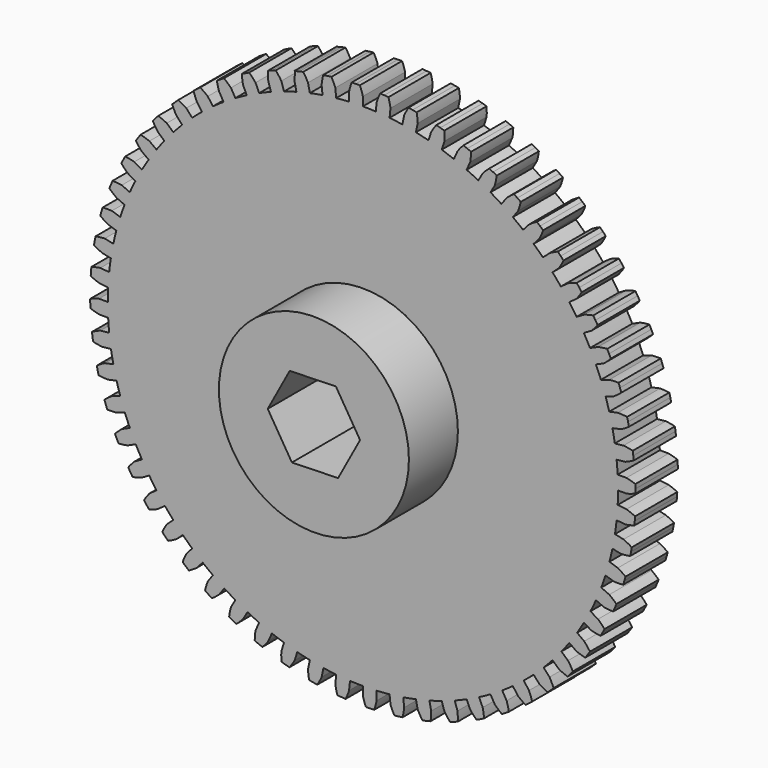
from build123d import *

# Parameters (mm, degrees)
F1_DEPTH = 6.35
F2_R     = 11.43
F3_DEPTH = 7.366
F5_DEPTH = 64.008


with BuildPart() as f1:
    # F0 (on Front) → F1 (new body)
    with BuildSketch(Plane.XZ):
        with BuildLine():
            ThreePointArc((30.651614, -1.550795), (30.681017, -0.775645), (30.69082, 0))
            ThreePointArc((30.69082, 0), (30.679564, 0.831138), (30.645804, 1.661667))
            ThreePointArc((30.645804, 1.661667), (30.59402, 2.435643), (30.522692, 3.208064))
            ThreePointArc((30.522692, 3.208064), (30.42462, 4.033473), (30.304232, 4.855923))
            ThreePointArc((30.304232, 4.855923), (30.171829, 5.620247), (30.020152, 6.38098))
            ThreePointArc((30.020152, 6.38098), (29.836338, 7.191616), (29.63064, 7.996976))
            ThreePointArc((29.63064, 7.996976), (29.419069, 8.743273), (29.188704, 9.483985))
            ThreePointArc((29.188704, 9.483985), (28.921163, 10.270966), (28.632408, 11.050413))
            ThreePointArc((28.632408, 11.050413), (28.343987, 11.770507), (28.037459, 12.483081))
            ThreePointArc((28.037459, 12.483081), (27.689122, 13.237785), (27.320474, 13.982779))
            ThreePointArc((27.320474, 13.982779), (26.958363, 14.66878), (26.57903, 15.34541))
            ThreePointArc((26.57903, 15.34541), (26.153713, 16.059569), (25.709211, 16.761947))
            ThreePointArc((25.709211, 16.761947), (25.277377, 17.406339), (24.829395, 18.039611))
            ThreePointArc((24.829395, 18.039611), (24.331758, 18.7054), (23.816273, 19.357468))
            ThreePointArc((23.816273, 19.357468), (23.319447, 19.953191), (22.807724, 20.536167))
            ThreePointArc((22.807724, 20.536167), (22.243219, 21.146291), (21.662399, 21.740904))
            ThreePointArc((21.662399, 21.740904), (21.106024, 22.281431), (20.536167, 22.807724))
            ThreePointArc((20.536167, 22.807724), (19.910979, 23.355499), (19.271186, 23.886143))
            ThreePointArc((19.271186, 23.886143), (18.66136, 24.365551), (18.039611, 24.829395))
            ThreePointArc((18.039611, 24.829395), (17.36059, 25.308819), (16.668835, 25.769679))
            ThreePointArc((16.668835, 25.769679), (16.012237, 26.182718), (15.34541, 26.57903))
            ThreePointArc((15.34541, 26.57903), (14.619995, 26.984851), (13.883856, 27.370878))
            ThreePointArc((13.883856, 27.370878), (13.187681, 27.71302), (12.483081, 28.037459))
            ThreePointArc((12.483081, 28.037459), (11.71922, 28.365231), (10.946763, 28.672196))
            ThreePointArc((10.946763, 28.672196), (10.218638, 28.939694), (9.483985, 29.188704))
            ThreePointArc((9.483985, 29.188704), (8.690047, 29.434835), (7.889735, 29.659375))
            ThreePointArc((7.889735, 29.659375), (7.137638, 29.849297), (6.38098, 30.020152))
            ThreePointArc((6.38098, 30.020152), (5.565664, 30.181945), (4.746266, 30.321599))
            ThreePointArc((4.746266, 30.321599), (3.978436, 30.431866), (3.208064, 30.522692))
            ThreePointArc((3.208064, 30.522692), (2.380303, 30.598376), (1.550795, 30.651614))
            ThreePointArc((1.550795, 30.651614), (0.775645, 30.681017), (0, 30.69082))
            ThreePointArc((0, 30.69082), (-0.831138, 30.679564), (-1.661667, 30.645804))
            ThreePointArc((-1.661667, 30.645804), (-2.435643, 30.59402), (-3.208064, 30.522692))
            ThreePointArc((-3.208064, 30.522692), (-4.033473, 30.42462), (-4.855923, 30.304232))
            ThreePointArc((-4.855923, 30.304232), (-5.620247, 30.171829), (-6.38098, 30.020152))
            ThreePointArc((-6.38098, 30.020152), (-7.191616, 29.836338), (-7.996976, 29.63064))
            ThreePointArc((-7.996976, 29.63064), (-8.743273, 29.419069), (-9.483985, 29.188704))
            ThreePointArc((-9.483985, 29.188704), (-10.270966, 28.921163), (-11.050413, 28.632408))
            ThreePointArc((-11.050413, 28.632408), (-11.770507, 28.343987), (-12.483081, 28.037459))
            ThreePointArc((-12.483081, 28.037459), (-13.237785, 27.689122), (-13.982779, 27.320474))
            ThreePointArc((-13.982779, 27.320474), (-14.66878, 26.958363), (-15.34541, 26.57903))
            ThreePointArc((-15.34541, 26.57903), (-16.059569, 26.153713), (-16.761947, 25.709211))
            ThreePointArc((-16.761947, 25.709211), (-17.406339, 25.277377), (-18.039611, 24.829395))
            ThreePointArc((-18.039611, 24.829395), (-18.7054, 24.331758), (-19.357468, 23.816273))
            ThreePointArc((-19.357468, 23.816273), (-19.953191, 23.319447), (-20.536167, 22.807724))
            ThreePointArc((-20.536167, 22.807724), (-21.146291, 22.243219), (-21.740904, 21.662399))
            ThreePointArc((-21.740904, 21.662399), (-22.281431, 21.106024), (-22.807724, 20.536167))
            ThreePointArc((-22.807724, 20.536167), (-23.355499, 19.910979), (-23.886143, 19.271186))
            ThreePointArc((-23.886143, 19.271186), (-24.365551, 18.66136), (-24.829395, 18.039611))
            ThreePointArc((-24.829395, 18.039611), (-25.308819, 17.36059), (-25.769679, 16.668835))
            ThreePointArc((-25.769679, 16.668835), (-26.182718, 16.012237), (-26.57903, 15.34541))
            ThreePointArc((-26.57903, 15.34541), (-26.984851, 14.619995), (-27.370878, 13.883856))
            ThreePointArc((-27.370878, 13.883856), (-27.71302, 13.187681), (-28.037459, 12.483081))
            ThreePointArc((-28.037459, 12.483081), (-28.365231, 11.71922), (-28.672196, 10.946763))
            ThreePointArc((-28.672196, 10.946763), (-28.939694, 10.218638), (-29.188704, 9.483985))
            ThreePointArc((-29.188704, 9.483985), (-29.434835, 8.690047), (-29.659375, 7.889735))
            ThreePointArc((-29.659375, 7.889735), (-29.849297, 7.137638), (-30.020152, 6.38098))
            ThreePointArc((-30.020152, 6.38098), (-30.181945, 5.565664), (-30.321599, 4.746266))
            ThreePointArc((-30.321599, 4.746266), (-30.431866, 3.978436), (-30.522692, 3.208064))
            ThreePointArc((-30.522692, 3.208064), (-30.598376, 2.380303), (-30.651614, 1.550795))
            ThreePointArc((-30.651614, 1.550795), (-30.681017, 0.775645), (-30.69082, 0))
            ThreePointArc((-30.69082, 0), (-30.679564, -0.831138), (-30.645804, -1.661667))
            ThreePointArc((-30.645804, -1.661667), (-30.59402, -2.435643), (-30.522692, -3.208064))
            ThreePointArc((-30.522692, -3.208064), (-30.42462, -4.033473), (-30.304232, -4.855923))
            ThreePointArc((-30.304232, -4.855923), (-30.171829, -5.620247), (-30.020152, -6.38098))
            ThreePointArc((-30.020152, -6.38098), (-29.836338, -7.191616), (-29.63064, -7.996976))
            ThreePointArc((-29.63064, -7.996976), (-29.419069, -8.743273), (-29.188704, -9.483985))
            ThreePointArc((-29.188704, -9.483985), (-28.921163, -10.270966), (-28.632408, -11.050413))
            ThreePointArc((-28.632408, -11.050413), (-28.343987, -11.770507), (-28.037459, -12.483081))
            ThreePointArc((-28.037459, -12.483081), (-27.689122, -13.237785), (-27.320474, -13.982779))
            ThreePointArc((-27.320474, -13.982779), (-26.958363, -14.66878), (-26.57903, -15.34541))
            ThreePointArc((-26.57903, -15.34541), (-26.153713, -16.059569), (-25.709211, -16.761947))
            ThreePointArc((-25.709211, -16.761947), (-25.277377, -17.406339), (-24.829395, -18.039611))
            ThreePointArc((-24.829395, -18.039611), (-24.331758, -18.7054), (-23.816273, -19.357468))
            ThreePointArc((-23.816273, -19.357468), (-23.319447, -19.953191), (-22.807724, -20.536167))
            ThreePointArc((-22.807724, -20.536167), (-22.243219, -21.146291), (-21.662399, -21.740904))
            ThreePointArc((-21.662399, -21.740904), (-21.106024, -22.281431), (-20.536167, -22.807724))
            ThreePointArc((-20.536167, -22.807724), (-19.910979, -23.355499), (-19.271186, -23.886143))
            ThreePointArc((-19.271186, -23.886143), (-18.66136, -24.365551), (-18.039611, -24.829395))
            ThreePointArc((-18.039611, -24.829395), (-17.36059, -25.308819), (-16.668835, -25.769679))
            ThreePointArc((-16.668835, -25.769679), (-16.012237, -26.182718), (-15.34541, -26.57903))
            ThreePointArc((-15.34541, -26.57903), (-14.619995, -26.984851), (-13.883856, -27.370878))
            ThreePointArc((-13.883856, -27.370878), (-13.187681, -27.71302), (-12.483081, -28.037459))
            ThreePointArc((-12.483081, -28.037459), (-11.71922, -28.365231), (-10.946763, -28.672196))
            ThreePointArc((-10.946763, -28.672196), (-10.218638, -28.939694), (-9.483985, -29.188704))
            ThreePointArc((-9.483985, -29.188704), (-8.690047, -29.434835), (-7.889735, -29.659375))
            ThreePointArc((-7.889735, -29.659375), (-7.137638, -29.849297), (-6.38098, -30.020152))
            ThreePointArc((-6.38098, -30.020152), (-5.565664, -30.181945), (-4.746266, -30.321599))
            ThreePointArc((-4.746266, -30.321599), (-3.978436, -30.431866), (-3.208064, -30.522692))
            ThreePointArc((-3.208064, -30.522692), (-2.380303, -30.598376), (-1.550795, -30.651614))
            ThreePointArc((-1.550795, -30.651614), (-0.775645, -30.681017), (0, -30.69082))
            ThreePointArc((0, -30.69082), (0.831138, -30.679564), (1.661667, -30.645804))
            ThreePointArc((1.661667, -30.645804), (2.435643, -30.59402), (3.208064, -30.522692))
            ThreePointArc((3.208064, -30.522692), (4.033473, -30.42462), (4.855923, -30.304232))
            ThreePointArc((4.855923, -30.304232), (5.620247, -30.171829), (6.38098, -30.020152))
            ThreePointArc((6.38098, -30.020152), (7.191616, -29.836338), (7.996976, -29.63064))
            ThreePointArc((7.996976, -29.63064), (8.743273, -29.419069), (9.483985, -29.188704))
            ThreePointArc((9.483985, -29.188704), (10.270966, -28.921163), (11.050413, -28.632408))
            ThreePointArc((11.050413, -28.632408), (11.770507, -28.343987), (12.483081, -28.037459))
            ThreePointArc((12.483081, -28.037459), (13.237785, -27.689122), (13.982779, -27.320474))
            ThreePointArc((13.982779, -27.320474), (14.66878, -26.958363), (15.34541, -26.57903))
            ThreePointArc((15.34541, -26.57903), (16.059569, -26.153713), (16.761947, -25.709211))
            ThreePointArc((16.761947, -25.709211), (17.406339, -25.277377), (18.039611, -24.829395))
            ThreePointArc((18.039611, -24.829395), (18.7054, -24.331758), (19.357468, -23.816273))
            ThreePointArc((19.357468, -23.816273), (19.953191, -23.319447), (20.536167, -22.807724))
            ThreePointArc((20.536167, -22.807724), (21.146291, -22.243219), (21.740904, -21.662399))
            ThreePointArc((21.740904, -21.662399), (22.281431, -21.106024), (22.807724, -20.536167))
            ThreePointArc((22.807724, -20.536167), (23.355499, -19.910979), (23.886143, -19.271186))
            ThreePointArc((23.886143, -19.271186), (24.365551, -18.66136), (24.829395, -18.039611))
            ThreePointArc((24.829395, -18.039611), (25.308819, -17.36059), (25.769679, -16.668835))
            ThreePointArc((25.769679, -16.668835), (26.182718, -16.012237), (26.57903, -15.34541))
            ThreePointArc((26.57903, -15.34541), (26.984851, -14.619995), (27.370878, -13.883856))
            ThreePointArc((27.370878, -13.883856), (27.71302, -13.187681), (28.037459, -12.483081))
            ThreePointArc((28.037459, -12.483081), (28.365231, -11.71922), (28.672196, -10.946763))
            ThreePointArc((28.672196, -10.946763), (28.939694, -10.218638), (29.188704, -9.483985))
            ThreePointArc((29.188704, -9.483985), (29.434835, -8.690047), (29.659375, -7.889735))
            ThreePointArc((29.659375, -7.889735), (29.849297, -7.137638), (30.020152, -6.38098))
            ThreePointArc((30.020152, -6.38098), (30.181945, -5.565664), (30.321599, -4.746266))
            ThreePointArc((30.321599, -4.746266), (30.431866, -3.978436), (30.522692, -3.208064))
            ThreePointArc((30.522692, -3.208064), (30.598376, -2.380303), (30.651614, -1.550795))
        make_face()
        with BuildLine():
            ThreePointArc((30.645804, 1.661667), (30.679564, 0.831138), (30.69082, 0))
            Line((30.69082, 0), (31.75, 0))
            ThreePointArc((31.75, 0), (32.284314, 0.16194), (32.805923, 0.36104))
            ThreePointArc((32.805923, 0.36104), (32.80224, 0.609943), (32.796668, 0.858811))
            ThreePointArc((32.796668, 0.858811), (32.789207, 1.10763), (32.779859, 1.356384))
            ThreePointArc((32.779859, 1.356384), (32.248545, 1.527912), (31.706488, 1.661667))
            Line((31.706488, 1.661667), (30.645804, 1.661667))
        make_face()
        with BuildLine():
            Line((31.706488, -1.661667), (30.651614, -1.550795))
            ThreePointArc((30.651614, -1.550795), (30.598376, -2.380303), (30.522692, -3.208064))
            Line((30.522692, -3.208064), (31.57607, -3.318779))
            ThreePointArc((31.57607, -3.318779), (32.124385, -3.213577), (32.663948, -3.070091))
            ThreePointArc((32.663948, -3.070091), (32.686302, -2.822166), (32.706774, -2.574079))
            ThreePointArc((32.706774, -2.574079), (32.725363, -2.325844), (32.742069, -2.077474))
            ThreePointArc((32.742069, -2.077474), (32.231595, -1.851349), (31.706488, -1.661667))
        make_face()
        with BuildLine():
            ThreePointArc((30.304232, 4.855923), (30.42462, 4.033473), (30.522692, 3.208064))
            Line((30.522692, 3.208064), (31.57607, 3.318779))
            ThreePointArc((31.57607, 3.318779), (32.09053, 3.535683), (32.58847, 3.788215))
            ThreePointArc((32.58847, 3.788215), (32.558789, 4.035369), (32.527234, 4.282292))
            ThreePointArc((32.527234, 4.282292), (32.493806, 4.528967), (32.458507, 4.775382))
            ThreePointArc((32.458507, 4.775382), (31.912174, 4.890433), (31.359105, 4.966794))
            Line((31.359105, 4.966794), (30.304232, 4.855923))
        make_face()
        with BuildLine():
            Line((31.359105, -4.966794), (30.321599, -4.746266))
            ThreePointArc((30.321599, -4.746266), (30.181945, -5.565664), (30.020152, -6.38098))
            Line((30.020152, -6.38098), (31.056186, -6.601196))
            ThreePointArc((31.056186, -6.601196), (31.612494, -6.553885), (32.1641, -6.467585))
            ThreePointArc((32.1641, -6.467585), (32.212246, -6.223355), (32.258539, -5.978767))
            ThreePointArc((32.258539, -5.978767), (32.302974, -5.733834), (32.345549, -5.488572))
            ThreePointArc((32.345549, -5.488572), (31.861508, -5.210326), (31.359105, -4.966794))
        make_face()
        with BuildLine():
            ThreePointArc((29.63064, 7.996976), (29.836338, 7.191616), (30.020152, 6.38098))
            Line((30.020152, 6.38098), (31.056186, 6.601196))
            ThreePointArc((31.056186, 6.601196), (31.545155, 6.870688), (32.013971, 7.173885))
            ThreePointArc((32.013971, 7.173885), (31.958618, 7.416583), (31.901425, 7.658854))
            ThreePointArc((31.901425, 7.658854), (31.842395, 7.900685), (31.781533, 8.14206))
            ThreePointArc((31.781533, 8.14206), (31.226166, 8.199373), (30.668145, 8.217505))
            Line((30.668145, 8.217505), (29.63064, 7.996976))
        make_face()
        with BuildLine():
            Line((30.668145, -8.217505), (29.659375, -7.889735))
            ThreePointArc((29.659375, -7.889735), (29.434835, -8.690047), (29.188704, -9.483985))
            Line((29.188704, -9.483985), (30.196044, -9.81129))
            ThreePointArc((30.196044, -9.81129), (30.75425, -9.822388), (31.311855, -9.794219))
            ThreePointArc((31.311855, -9.794219), (31.385267, -9.556359), (31.456872, -9.31795))
            ThreePointArc((31.456872, -9.31795), (31.526666, -9.079004), (31.594645, -8.839535))
            ThreePointArc((31.594645, -8.839535), (31.14234, -8.512218), (30.668145, -8.217505))
        make_face()
        with BuildLine():
            ThreePointArc((28.632408, 11.050413), (28.921163, 10.270966), (29.188704, 9.483985))
            Line((29.188704, 9.483985), (30.196044, 9.81129))
            ThreePointArc((30.196044, 9.81129), (30.654165, 10.130416), (31.08872, 10.480957))
            ThreePointArc((31.08872, 10.480957), (31.008301, 10.71654), (30.926097, 10.951505))
            ThreePointArc((30.926097, 10.951505), (30.842113, 11.185841), (30.756353, 11.419532))
            ThreePointArc((30.756353, 11.419532), (30.198038, 11.418479), (29.641179, 11.378182))
            Line((29.641179, 11.378182), (28.632408, 11.050413))
        make_face()
        with BuildLine():
            Line((29.641179, -11.378182), (28.672196, -10.946763))
            ThreePointArc((28.672196, -10.946763), (28.365231, -11.71922), (28.037459, -12.483081))
            Line((28.037459, -12.483081), (29.005068, -12.913888))
            ThreePointArc((29.005068, -12.913888), (29.559056, -12.983274), (30.11655, -13.013545))
            ThreePointArc((30.11655, -13.013545), (30.214423, -12.784662), (30.310557, -12.555044))
            ThreePointArc((30.310557, -12.555044), (30.404945, -12.324702), (30.497583, -12.093651))
            ThreePointArc((30.497583, -12.093651), (30.08197, -11.720848), (29.641179, -11.378182))
        make_face()
        with BuildLine():
            ThreePointArc((27.320474, 13.982779), (27.689122, 13.237785), (28.037459, 12.483081))
            Line((28.037459, 12.483081), (29.005068, 12.913888))
            ThreePointArc((29.005068, 12.913888), (29.427322, 13.279153), (29.822854, 13.673197))
            ThreePointArc((29.822854, 13.673197), (29.718251, 13.899083), (29.611937, 14.124169))
            ThreePointArc((29.611937, 14.124169), (29.503918, 14.348442), (29.3942, 14.571889))
            ThreePointArc((29.3942, 14.571889), (28.839054, 14.512482), (28.289457, 14.414198))
            Line((28.289457, 14.414198), (27.320474, 13.982779))
        make_face()
        with BuildLine():
            Line((28.289457, -14.414198), (27.370878, -13.883856))
            ThreePointArc((27.370878, -13.883856), (26.984851, -14.619995), (26.57903, -15.34541))
            Line((26.57903, -15.34541), (27.496307, -15.875))
            ThreePointArc((27.496307, -15.875), (28.040007, -16.001913), (28.591283, -16.090292))
            ThreePointArc((28.591283, -16.090292), (28.712544, -15.872894), (28.832153, -15.654582))
            ThreePointArc((28.832153, -15.654582), (28.950101, -15.435368), (29.066383, -15.215266))
            ThreePointArc((29.066383, -15.215266), (28.692015, -14.801062), (28.289457, -14.414198))
        make_face()
        with BuildLine():
            ThreePointArc((25.709211, 16.761947), (26.153713, 16.059569), (26.57903, 15.34541))
            Line((26.57903, 15.34541), (27.496307, 15.875))
            ThreePointArc((27.496307, 15.875), (27.878066, 16.282402), (28.230243, 16.715631))
            ThreePointArc((28.230243, 16.715631), (28.102601, 16.929346), (27.973342, 17.142086))
            ThreePointArc((27.973342, 17.142086), (27.842472, 17.353839), (27.709999, 17.564593))
            ThreePointArc((27.709999, 17.564593), (27.164103, 17.447483), (26.627791, 17.292289))
            Line((26.627791, 17.292289), (25.709211, 16.761947))
        make_face()
        with BuildLine():
            Line((26.627791, -17.292289), (25.769679, -16.668835))
            ThreePointArc((25.769679, -16.668835), (25.308819, -17.36059), (24.829395, -18.039611))
            Line((24.829395, -18.039611), (25.68629, -18.662182))
            ThreePointArc((25.68629, -18.662182), (26.213745, -18.845232), (26.752763, -18.990751))
            ThreePointArc((26.752763, -18.990751), (26.896085, -18.787219), (27.037858, -18.582605))
            ThreePointArc((27.037858, -18.582605), (27.178074, -18.376921), (27.316726, -18.17018))
            ThreePointArc((27.316726, -18.17018), (26.987705, -17.719112), (26.627791, -17.292289))
        make_face()
        with BuildLine():
            ThreePointArc((23.816273, 19.357468), (24.331758, 18.7054), (24.829395, 18.039611))
            Line((24.829395, 18.039611), (25.68629, 18.662182))
            ThreePointArc((25.68629, 18.662182), (26.023373, 19.107256), (26.328336, 19.574925))
            ThreePointArc((26.328336, 19.574925), (26.179054, 19.774127), (26.028265, 19.97219))
            ThreePointArc((26.028265, 19.97219), (25.875978, 20.169104), (25.7222, 20.364856))
            ThreePointArc((25.7222, 20.364856), (25.191537, 20.191326), (24.674384, 19.980922))
            Line((24.674384, 19.980922), (23.816273, 19.357468))
        make_face()
        with BuildLine():
            Line((24.674384, -19.980922), (23.886143, -19.271186))
            ThreePointArc((23.886143, -19.271186), (23.355499, -19.910979), (22.807724, -20.536167))
            Line((22.807724, -20.536167), (23.594848, -21.244897))
            ThreePointArc((23.594848, -21.244897), (24.10028, -21.482078), (24.621135, -21.683143))
            ThreePointArc((24.621135, -21.683143), (24.784946, -21.495707), (24.94733, -21.307033))
            ThreePointArc((24.94733, -21.307033), (25.108279, -21.117133), (25.267781, -20.926017))
            ThreePointArc((25.267781, -20.926017), (24.987712, -20.443029), (24.674384, -19.980922))
        make_face()
        with BuildLine():
            ThreePointArc((21.662399, 21.740904), (22.243219, 21.146291), (22.807724, 20.536167))
            Line((22.807724, 20.536167), (23.594848, 21.244897))
            ThreePointArc((23.594848, 21.244897), (23.883562, 21.722768), (24.13797, 22.219752))
            ThreePointArc((24.13797, 22.219752), (23.968683, 22.402258), (23.798017, 22.583475))
            ThreePointArc((23.798017, 22.583475), (23.625981, 22.763391), (23.452584, 22.941997))
            ThreePointArc((23.452584, 22.941997), (22.942967, 22.713949), (22.45064, 22.45064))
            Line((22.45064, 22.45064), (21.662399, 21.740904))
        make_face()
        with BuildLine():
            Line((22.45064, -22.45064), (21.740904, -21.662399))
            ThreePointArc((21.740904, -21.662399), (21.146291, -22.243219), (20.536167, -22.807724))
            Line((20.536167, -22.807724), (21.244897, -23.594848))
            ThreePointArc((21.244897, -23.594848), (21.722768, -23.883562), (22.219752, -24.13797))
            ThreePointArc((22.219752, -24.13797), (22.402258, -23.968683), (22.583475, -23.798017))
            ThreePointArc((22.583475, -23.798017), (22.763391, -23.625981), (22.941997, -23.452584))
            ThreePointArc((22.941997, -23.452584), (22.713949, -22.942967), (22.45064, -22.45064))
        make_face()
        with BuildLine():
            ThreePointArc((19.271186, 23.886143), (19.910979, 23.355499), (20.536167, 22.807724))
            Line((20.536167, 22.807724), (21.244897, 23.594848))
            ThreePointArc((21.244897, 23.594848), (21.482078, 24.10028), (21.683143, 24.621135))
            ThreePointArc((21.683143, 24.621135), (21.495707, 24.784946), (21.307033, 24.94733))
            ThreePointArc((21.307033, 24.94733), (21.117133, 25.108279), (20.926017, 25.267781))
            ThreePointArc((20.926017, 25.267781), (20.443029, 24.987712), (19.980922, 24.674384))
            Line((19.980922, 24.674384), (19.271186, 23.886143))
        make_face()
        with BuildLine():
            Line((19.980922, -24.674384), (19.357468, -23.816273))
            ThreePointArc((19.357468, -23.816273), (18.7054, -24.331758), (18.039611, -24.829395))
            Line((18.039611, -24.829395), (18.662182, -25.68629))
            ThreePointArc((18.662182, -25.68629), (19.107256, -26.023373), (19.574925, -26.328336))
            ThreePointArc((19.574925, -26.328336), (19.774127, -26.179054), (19.97219, -26.028265))
            ThreePointArc((19.97219, -26.028265), (20.169104, -25.875978), (20.364856, -25.7222))
            ThreePointArc((20.364856, -25.7222), (20.191326, -25.191537), (19.980922, -24.674384))
        make_face()
        with BuildLine():
            ThreePointArc((16.668835, 25.769679), (17.36059, 25.308819), (18.039611, 24.829395))
            Line((18.039611, 24.829395), (18.662182, 25.68629))
            ThreePointArc((18.662182, 25.68629), (18.845232, 26.213745), (18.990751, 26.752763))
            ThreePointArc((18.990751, 26.752763), (18.787219, 26.896085), (18.582605, 27.037858))
            ThreePointArc((18.582605, 27.037858), (18.376921, 27.178074), (18.17018, 27.316726))
            ThreePointArc((18.17018, 27.316726), (17.719112, 26.987705), (17.292289, 26.627791))
            Line((17.292289, 26.627791), (16.668835, 25.769679))
        make_face()
        with BuildLine():
            Line((17.292289, -26.627791), (16.761947, -25.709211))
            ThreePointArc((16.761947, -25.709211), (16.059569, -26.153713), (15.34541, -26.57903))
            Line((15.34541, -26.57903), (15.875, -27.496307))
            ThreePointArc((15.875, -27.496307), (16.282402, -27.878066), (16.715631, -28.230243))
            ThreePointArc((16.715631, -28.230243), (16.929346, -28.102601), (17.142086, -27.973342))
            ThreePointArc((17.142086, -27.973342), (17.353839, -27.842472), (17.564593, -27.709999))
            ThreePointArc((17.564593, -27.709999), (17.447483, -27.164103), (17.292289, -26.627791))
        make_face()
        with BuildLine():
            ThreePointArc((13.883856, 27.370878), (14.619995, 26.984851), (15.34541, 26.57903))
            Line((15.34541, 26.57903), (15.875, 27.496307))
            ThreePointArc((15.875, 27.496307), (16.001913, 28.040007), (16.090292, 28.591283))
            ThreePointArc((16.090292, 28.591283), (15.872894, 28.712544), (15.654582, 28.832153))
            ThreePointArc((15.654582, 28.832153), (15.435368, 28.950101), (15.215266, 29.066383))
            ThreePointArc((15.215266, 29.066383), (14.801062, 28.692015), (14.414198, 28.289457))
            Line((14.414198, 28.289457), (13.883856, 27.370878))
        make_face()
        with BuildLine():
            Line((14.414198, -28.289457), (13.982779, -27.320474))
            ThreePointArc((13.982779, -27.320474), (13.237785, -27.689122), (12.483081, -28.037459))
            Line((12.483081, -28.037459), (12.913888, -29.005068))
            ThreePointArc((12.913888, -29.005068), (13.279153, -29.427322), (13.673197, -29.822854))
            ThreePointArc((13.673197, -29.822854), (13.899083, -29.718251), (14.124169, -29.611937))
            ThreePointArc((14.124169, -29.611937), (14.348442, -29.503918), (14.571889, -29.3942))
            ThreePointArc((14.571889, -29.3942), (14.512482, -28.839054), (14.414198, -28.289457))
        make_face()
        with BuildLine():
            ThreePointArc((10.946763, 28.672196), (11.71922, 28.365231), (12.483081, 28.037459))
            Line((12.483081, 28.037459), (12.913888, 29.005068))
            ThreePointArc((12.913888, 29.005068), (12.983274, 29.559056), (13.013545, 30.11655))
            ThreePointArc((13.013545, 30.11655), (12.784662, 30.214423), (12.555044, 30.310557))
            ThreePointArc((12.555044, 30.310557), (12.324702, 30.404945), (12.093651, 30.497583))
            ThreePointArc((12.093651, 30.497583), (11.720848, 30.08197), (11.378182, 29.641179))
            Line((11.378182, 29.641179), (10.946763, 28.672196))
        make_face()
        with BuildLine():
            Line((11.378182, -29.641179), (11.050413, -28.632408))
            ThreePointArc((11.050413, -28.632408), (10.270966, -28.921163), (9.483985, -29.188704))
            Line((9.483985, -29.188704), (9.81129, -30.196044))
            ThreePointArc((9.81129, -30.196044), (10.130416, -30.654165), (10.480957, -31.08872))
            ThreePointArc((10.480957, -31.08872), (10.71654, -31.008301), (10.951505, -30.926097))
            ThreePointArc((10.951505, -30.926097), (11.185841, -30.842113), (11.419532, -30.756353))
            ThreePointArc((11.419532, -30.756353), (11.418479, -30.198038), (11.378182, -29.641179))
        make_face()
        with BuildLine():
            ThreePointArc((7.889735, 29.659375), (8.690047, 29.434835), (9.483985, 29.188704))
            Line((9.483985, 29.188704), (9.81129, 30.196044))
            ThreePointArc((9.81129, 30.196044), (9.822388, 30.75425), (9.794219, 31.311855))
            ThreePointArc((9.794219, 31.311855), (9.556359, 31.385267), (9.31795, 31.456872))
            ThreePointArc((9.31795, 31.456872), (9.079004, 31.526666), (8.839535, 31.594645))
            ThreePointArc((8.839535, 31.594645), (8.512218, 31.14234), (8.217505, 30.668145))
            Line((8.217505, 30.668145), (7.889735, 29.659375))
        make_face()
        with BuildLine():
            Line((8.217505, -30.668145), (7.996976, -29.63064))
            ThreePointArc((7.996976, -29.63064), (7.191616, -29.836338), (6.38098, -30.020152))
            Line((6.38098, -30.020152), (6.601196, -31.056186))
            ThreePointArc((6.601196, -31.056186), (6.870688, -31.545155), (7.173885, -32.013971))
            ThreePointArc((7.173885, -32.013971), (7.416583, -31.958618), (7.658854, -31.901425))
            ThreePointArc((7.658854, -31.901425), (7.900685, -31.842395), (8.14206, -31.781533))
            ThreePointArc((8.14206, -31.781533), (8.199373, -31.226166), (8.217505, -30.668145))
        make_face()
        with BuildLine():
            ThreePointArc((4.746266, 30.321599), (5.565664, 30.181945), (6.38098, 30.020152))
            Line((6.38098, 30.020152), (6.601196, 31.056186))
            ThreePointArc((6.601196, 31.056186), (6.553885, 31.612494), (6.467585, 32.1641))
            ThreePointArc((6.467585, 32.1641), (6.223355, 32.212246), (5.978767, 32.258539))
            ThreePointArc((5.978767, 32.258539), (5.733834, 32.302974), (5.488572, 32.345549))
            ThreePointArc((5.488572, 32.345549), (5.210326, 31.861508), (4.966794, 31.359105))
            Line((4.966794, 31.359105), (4.746266, 30.321599))
        make_face()
        with BuildLine():
            Line((4.966794, -31.359105), (4.855923, -30.304232))
            ThreePointArc((4.855923, -30.304232), (4.033473, -30.42462), (3.208064, -30.522692))
            Line((3.208064, -30.522692), (3.318779, -31.57607))
            ThreePointArc((3.318779, -31.57607), (3.535683, -32.09053), (3.788215, -32.58847))
            ThreePointArc((3.788215, -32.58847), (4.035369, -32.558789), (4.282292, -32.527234))
            ThreePointArc((4.282292, -32.527234), (4.528967, -32.493806), (4.775382, -32.458507))
            ThreePointArc((4.775382, -32.458507), (4.890433, -31.912174), (4.966794, -31.359105))
        make_face()
        with BuildLine():
            ThreePointArc((1.550795, 30.651614), (2.380303, 30.598376), (3.208064, 30.522692))
            Line((3.208064, 30.522692), (3.318779, 31.57607))
            ThreePointArc((3.318779, 31.57607), (3.213577, 32.124385), (3.070091, 32.663948))
            ThreePointArc((3.070091, 32.663948), (2.822166, 32.686302), (2.574079, 32.706774))
            ThreePointArc((2.574079, 32.706774), (2.325844, 32.725363), (2.077474, 32.742069))
            ThreePointArc((2.077474, 32.742069), (1.851349, 32.231595), (1.661667, 31.706488))
            Line((1.661667, 31.706488), (1.550795, 30.651614))
        make_face()
        with BuildLine():
            Line((1.661667, -31.706488), (1.661667, -30.645804))
            ThreePointArc((1.661667, -30.645804), (0.831138, -30.679564), (0, -30.69082))
            Line((0, -30.69082), (0, -31.75))
            ThreePointArc((0, -31.75), (0.16194, -32.284314), (0.36104, -32.805923))
            ThreePointArc((0.36104, -32.805923), (0.609943, -32.80224), (0.858811, -32.796668))
            ThreePointArc((0.858811, -32.796668), (1.10763, -32.789207), (1.356384, -32.779859))
            ThreePointArc((1.356384, -32.779859), (1.527912, -32.248545), (1.661667, -31.706488))
        make_face()
        with BuildLine():
            ThreePointArc((-1.661667, 30.645804), (-0.831138, 30.679564), (0, 30.69082))
            Line((0, 30.69082), (0, 31.75))
            ThreePointArc((0, 31.75), (-0.16194, 32.284314), (-0.36104, 32.805923))
            ThreePointArc((-0.36104, 32.805923), (-0.609943, 32.80224), (-0.858811, 32.796668))
            ThreePointArc((-0.858811, 32.796668), (-1.10763, 32.789207), (-1.356384, 32.779859))
            ThreePointArc((-1.356384, 32.779859), (-1.527912, 32.248545), (-1.661667, 31.706488))
            Line((-1.661667, 31.706488), (-1.661667, 30.645804))
        make_face()
        with BuildLine():
            Line((-1.661667, -31.706488), (-1.550795, -30.651614))
            ThreePointArc((-1.550795, -30.651614), (-2.380303, -30.598376), (-3.208064, -30.522692))
            Line((-3.208064, -30.522692), (-3.318779, -31.57607))
            ThreePointArc((-3.318779, -31.57607), (-3.213577, -32.124385), (-3.070091, -32.663948))
            ThreePointArc((-3.070091, -32.663948), (-2.822166, -32.686302), (-2.574079, -32.706774))
            ThreePointArc((-2.574079, -32.706774), (-2.325844, -32.725363), (-2.077474, -32.742069))
            ThreePointArc((-2.077474, -32.742069), (-1.851349, -32.231595), (-1.661667, -31.706488))
        make_face()
        with BuildLine():
            ThreePointArc((-4.855923, 30.304232), (-4.033473, 30.42462), (-3.208064, 30.522692))
            Line((-3.208064, 30.522692), (-3.318779, 31.57607))
            ThreePointArc((-3.318779, 31.57607), (-3.535683, 32.09053), (-3.788215, 32.58847))
            ThreePointArc((-3.788215, 32.58847), (-4.035369, 32.558789), (-4.282292, 32.527234))
            ThreePointArc((-4.282292, 32.527234), (-4.528967, 32.493806), (-4.775382, 32.458507))
            ThreePointArc((-4.775382, 32.458507), (-4.890433, 31.912174), (-4.966794, 31.359105))
            Line((-4.966794, 31.359105), (-4.855923, 30.304232))
        make_face()
        with BuildLine():
            Line((-4.966794, -31.359105), (-4.746266, -30.321599))
            ThreePointArc((-4.746266, -30.321599), (-5.565664, -30.181945), (-6.38098, -30.020152))
            Line((-6.38098, -30.020152), (-6.601196, -31.056186))
            ThreePointArc((-6.601196, -31.056186), (-6.553885, -31.612494), (-6.467585, -32.1641))
            ThreePointArc((-6.467585, -32.1641), (-6.223355, -32.212246), (-5.978767, -32.258539))
            ThreePointArc((-5.978767, -32.258539), (-5.733834, -32.302974), (-5.488572, -32.345549))
            ThreePointArc((-5.488572, -32.345549), (-5.210326, -31.861508), (-4.966794, -31.359105))
        make_face()
        with BuildLine():
            ThreePointArc((-7.996976, 29.63064), (-7.191616, 29.836338), (-6.38098, 30.020152))
            Line((-6.38098, 30.020152), (-6.601196, 31.056186))
            ThreePointArc((-6.601196, 31.056186), (-6.870688, 31.545155), (-7.173885, 32.013971))
            ThreePointArc((-7.173885, 32.013971), (-7.416583, 31.958618), (-7.658854, 31.901425))
            ThreePointArc((-7.658854, 31.901425), (-7.798033, 31.86769), (-7.937062, 31.833347))
            ThreePointArc((-7.937062, 31.833347), (-7.937391, 31.791674), (-7.9375, 31.75))
            Line((-7.9375, 31.75), (-8.146375, 31.75))
            ThreePointArc((-8.146375, 31.75), (-8.200433, 31.210288), (-8.217505, 30.668145))
            Line((-8.217505, 30.668145), (-7.996976, 29.63064))
        make_face()
        with BuildLine():
            Line((-8.217505, -30.668145), (-7.889735, -29.659375))
            ThreePointArc((-7.889735, -29.659375), (-8.690047, -29.434835), (-9.483985, -29.188704))
            Line((-9.483985, -29.188704), (-9.81129, -30.196044))
            ThreePointArc((-9.81129, -30.196044), (-9.822388, -30.75425), (-9.794219, -31.311855))
            ThreePointArc((-9.794219, -31.311855), (-9.556359, -31.385267), (-9.31795, -31.456872))
            ThreePointArc((-9.31795, -31.456872), (-9.079004, -31.526666), (-8.839535, -31.594645))
            ThreePointArc((-8.839535, -31.594645), (-8.512218, -31.14234), (-8.217505, -30.668145))
        make_face()
        with BuildLine():
            ThreePointArc((-11.050413, 28.632408), (-10.270966, 28.921163), (-9.483985, 29.188704))
            Line((-9.483985, 29.188704), (-9.81129, 30.196044))
            ThreePointArc((-9.81129, 30.196044), (-10.130416, 30.654165), (-10.480957, 31.08872))
            ThreePointArc((-10.480957, 31.08872), (-10.71654, 31.008301), (-10.951505, 30.926097))
            ThreePointArc((-10.951505, 30.926097), (-11.185841, 30.842113), (-11.419532, 30.756353))
            ThreePointArc((-11.419532, 30.756353), (-11.418479, 30.198038), (-11.378182, 29.641179))
            Line((-11.378182, 29.641179), (-11.050413, 28.632408))
        make_face()
        with BuildLine():
            ThreePointArc((-8.14206, 31.781533), (-8.144234, 31.765768), (-8.146375, 31.75))
            Line((-8.146375, 31.75), (-7.9375, 31.75))
            ThreePointArc((-7.9375, 31.75), (-7.937391, 31.791674), (-7.937062, 31.833347))
            ThreePointArc((-7.937062, 31.833347), (-8.039603, 31.807605), (-8.14206, 31.781533))
        make_face()
        with BuildLine():
            Line((-8.264167, 31.75), (-8.146375, 31.75))
            ThreePointArc((-8.146375, 31.75), (-8.144234, 31.765768), (-8.14206, 31.781533))
            ThreePointArc((-8.14206, 31.781533), (-8.203129, 31.765825), (-8.264167, 31.75))
        make_face()
        with BuildLine():
            Line((-11.378182, -29.641179), (-10.946763, -28.672196))
            ThreePointArc((-10.946763, -28.672196), (-11.71922, -28.365231), (-12.483081, -28.037459))
            Line((-12.483081, -28.037459), (-12.913888, -29.005068))
            ThreePointArc((-12.913888, -29.005068), (-12.983274, -29.559056), (-13.013545, -30.11655))
            ThreePointArc((-13.013545, -30.11655), (-12.784662, -30.214423), (-12.555044, -30.310557))
            ThreePointArc((-12.555044, -30.310557), (-12.324702, -30.404945), (-12.093651, -30.497583))
            ThreePointArc((-12.093651, -30.497583), (-11.720848, -30.08197), (-11.378182, -29.641179))
        make_face()
        with BuildLine():
            ThreePointArc((-13.982779, 27.320474), (-13.237785, 27.689122), (-12.483081, 28.037459))
            Line((-12.483081, 28.037459), (-12.913888, 29.005068))
            ThreePointArc((-12.913888, 29.005068), (-13.279153, 29.427322), (-13.673197, 29.822854))
            ThreePointArc((-13.673197, 29.822854), (-13.899083, 29.718251), (-14.124169, 29.611937))
            ThreePointArc((-14.124169, 29.611937), (-14.348442, 29.503918), (-14.571889, 29.3942))
            ThreePointArc((-14.571889, 29.3942), (-14.512482, 28.839054), (-14.414198, 28.289457))
            Line((-14.414198, 28.289457), (-13.982779, 27.320474))
        make_face()
        with BuildLine():
            Line((-14.414198, -28.289457), (-13.883856, -27.370878))
            ThreePointArc((-13.883856, -27.370878), (-14.619995, -26.984851), (-15.34541, -26.57903))
            Line((-15.34541, -26.57903), (-15.875, -27.496307))
            ThreePointArc((-15.875, -27.496307), (-16.001913, -28.040007), (-16.090292, -28.591283))
            ThreePointArc((-16.090292, -28.591283), (-15.872894, -28.712544), (-15.654582, -28.832153))
            ThreePointArc((-15.654582, -28.832153), (-15.435368, -28.950101), (-15.215266, -29.066383))
            ThreePointArc((-15.215266, -29.066383), (-14.801062, -28.692015), (-14.414198, -28.289457))
        make_face()
        with BuildLine():
            ThreePointArc((-16.761947, 25.709211), (-16.059569, 26.153713), (-15.34541, 26.57903))
            Line((-15.34541, 26.57903), (-15.875, 27.496307))
            ThreePointArc((-15.875, 27.496307), (-16.282402, 27.878066), (-16.715631, 28.230243))
            ThreePointArc((-16.715631, 28.230243), (-16.929346, 28.102601), (-17.142086, 27.973342))
            ThreePointArc((-17.142086, 27.973342), (-17.353839, 27.842472), (-17.564593, 27.709999))
            ThreePointArc((-17.564593, 27.709999), (-17.447483, 27.164103), (-17.292289, 26.627791))
            Line((-17.292289, 26.627791), (-16.761947, 25.709211))
        make_face()
        with BuildLine():
            Line((-17.292289, -26.627791), (-16.668835, -25.769679))
            ThreePointArc((-16.668835, -25.769679), (-17.36059, -25.308819), (-18.039611, -24.829395))
            Line((-18.039611, -24.829395), (-18.662182, -25.68629))
            ThreePointArc((-18.662182, -25.68629), (-18.845232, -26.213745), (-18.990751, -26.752763))
            ThreePointArc((-18.990751, -26.752763), (-18.787219, -26.896085), (-18.582605, -27.037858))
            ThreePointArc((-18.582605, -27.037858), (-18.376921, -27.178074), (-18.17018, -27.316726))
            ThreePointArc((-18.17018, -27.316726), (-17.719112, -26.987705), (-17.292289, -26.627791))
        make_face()
        with BuildLine():
            ThreePointArc((-19.357468, 23.816273), (-18.7054, 24.331758), (-18.039611, 24.829395))
            Line((-18.039611, 24.829395), (-18.662182, 25.68629))
            ThreePointArc((-18.662182, 25.68629), (-19.107256, 26.023373), (-19.574925, 26.328336))
            ThreePointArc((-19.574925, 26.328336), (-19.774127, 26.179054), (-19.97219, 26.028265))
            ThreePointArc((-19.97219, 26.028265), (-20.169104, 25.875978), (-20.364856, 25.7222))
            ThreePointArc((-20.364856, 25.7222), (-20.191326, 25.191537), (-19.980922, 24.674384))
            Line((-19.980922, 24.674384), (-19.357468, 23.816273))
        make_face()
        with BuildLine():
            Line((-19.980922, -24.674384), (-19.271186, -23.886143))
            ThreePointArc((-19.271186, -23.886143), (-19.910979, -23.355499), (-20.536167, -22.807724))
            Line((-20.536167, -22.807724), (-21.244897, -23.594848))
            ThreePointArc((-21.244897, -23.594848), (-21.482078, -24.10028), (-21.683143, -24.621135))
            ThreePointArc((-21.683143, -24.621135), (-21.495707, -24.784946), (-21.307033, -24.94733))
            ThreePointArc((-21.307033, -24.94733), (-21.117133, -25.108279), (-20.926017, -25.267781))
            ThreePointArc((-20.926017, -25.267781), (-20.443029, -24.987712), (-19.980922, -24.674384))
        make_face()
        with BuildLine():
            ThreePointArc((-21.740904, 21.662399), (-21.146291, 22.243219), (-20.536167, 22.807724))
            Line((-20.536167, 22.807724), (-21.244897, 23.594848))
            ThreePointArc((-21.244897, 23.594848), (-21.722768, 23.883562), (-22.219752, 24.13797))
            ThreePointArc((-22.219752, 24.13797), (-22.402258, 23.968683), (-22.583475, 23.798017))
            ThreePointArc((-22.583475, 23.798017), (-22.763391, 23.625981), (-22.941997, 23.452584))
            ThreePointArc((-22.941997, 23.452584), (-22.713949, 22.942967), (-22.45064, 22.45064))
            Line((-22.45064, 22.45064), (-21.740904, 21.662399))
        make_face()
        with BuildLine():
            Line((-22.45064, -22.45064), (-21.662399, -21.740904))
            ThreePointArc((-21.662399, -21.740904), (-22.243219, -21.146291), (-22.807724, -20.536167))
            Line((-22.807724, -20.536167), (-23.594848, -21.244897))
            ThreePointArc((-23.594848, -21.244897), (-23.883562, -21.722768), (-24.13797, -22.219752))
            ThreePointArc((-24.13797, -22.219752), (-23.968683, -22.402258), (-23.798017, -22.583475))
            ThreePointArc((-23.798017, -22.583475), (-23.625981, -22.763391), (-23.452584, -22.941997))
            ThreePointArc((-23.452584, -22.941997), (-22.942967, -22.713949), (-22.45064, -22.45064))
        make_face()
        with BuildLine():
            ThreePointArc((-23.886143, 19.271186), (-23.355499, 19.910979), (-22.807724, 20.536167))
            Line((-22.807724, 20.536167), (-23.594848, 21.244897))
            ThreePointArc((-23.594848, 21.244897), (-24.10028, 21.482078), (-24.621135, 21.683143))
            ThreePointArc((-24.621135, 21.683143), (-24.784946, 21.495707), (-24.94733, 21.307033))
            ThreePointArc((-24.94733, 21.307033), (-25.108279, 21.117133), (-25.267781, 20.926017))
            ThreePointArc((-25.267781, 20.926017), (-24.987712, 20.443029), (-24.674384, 19.980922))
            Line((-24.674384, 19.980922), (-23.886143, 19.271186))
        make_face()
        with BuildLine():
            Line((-24.674384, -19.980922), (-23.816273, -19.357468))
            ThreePointArc((-23.816273, -19.357468), (-24.331758, -18.7054), (-24.829395, -18.039611))
            Line((-24.829395, -18.039611), (-25.68629, -18.662182))
            ThreePointArc((-25.68629, -18.662182), (-26.023373, -19.107256), (-26.328336, -19.574925))
            ThreePointArc((-26.328336, -19.574925), (-26.179054, -19.774127), (-26.028265, -19.97219))
            ThreePointArc((-26.028265, -19.97219), (-25.875978, -20.169104), (-25.7222, -20.364856))
            ThreePointArc((-25.7222, -20.364856), (-25.191537, -20.191326), (-24.674384, -19.980922))
        make_face()
        with BuildLine():
            ThreePointArc((-25.769679, 16.668835), (-25.308819, 17.36059), (-24.829395, 18.039611))
            Line((-24.829395, 18.039611), (-25.68629, 18.662182))
            ThreePointArc((-25.68629, 18.662182), (-26.213745, 18.845232), (-26.752763, 18.990751))
            ThreePointArc((-26.752763, 18.990751), (-26.896085, 18.787219), (-27.037858, 18.582605))
            ThreePointArc((-27.037858, 18.582605), (-27.178074, 18.376921), (-27.316726, 18.17018))
            ThreePointArc((-27.316726, 18.17018), (-26.987705, 17.719112), (-26.627791, 17.292289))
            Line((-26.627791, 17.292289), (-25.769679, 16.668835))
        make_face()
        with BuildLine():
            Line((-26.627791, -17.292289), (-25.709211, -16.761947))
            ThreePointArc((-25.709211, -16.761947), (-26.153713, -16.059569), (-26.57903, -15.34541))
            Line((-26.57903, -15.34541), (-27.496307, -15.875))
            ThreePointArc((-27.496307, -15.875), (-27.878066, -16.282402), (-28.230243, -16.715631))
            ThreePointArc((-28.230243, -16.715631), (-28.102601, -16.929346), (-27.973342, -17.142086))
            ThreePointArc((-27.973342, -17.142086), (-27.842472, -17.353839), (-27.709999, -17.564593))
            ThreePointArc((-27.709999, -17.564593), (-27.164103, -17.447483), (-26.627791, -17.292289))
        make_face()
        with BuildLine():
            ThreePointArc((-27.370878, 13.883856), (-26.984851, 14.619995), (-26.57903, 15.34541))
            Line((-26.57903, 15.34541), (-27.496307, 15.875))
            ThreePointArc((-27.496307, 15.875), (-28.040007, 16.001913), (-28.591283, 16.090292))
            ThreePointArc((-28.591283, 16.090292), (-28.712544, 15.872894), (-28.832153, 15.654582))
            ThreePointArc((-28.832153, 15.654582), (-28.950101, 15.435368), (-29.066383, 15.215266))
            ThreePointArc((-29.066383, 15.215266), (-28.692015, 14.801062), (-28.289457, 14.414198))
            Line((-28.289457, 14.414198), (-27.370878, 13.883856))
        make_face()
        with BuildLine():
            Line((-28.289457, -14.414198), (-27.320474, -13.982779))
            ThreePointArc((-27.320474, -13.982779), (-27.689122, -13.237785), (-28.037459, -12.483081))
            Line((-28.037459, -12.483081), (-29.005068, -12.913888))
            ThreePointArc((-29.005068, -12.913888), (-29.427322, -13.279153), (-29.822854, -13.673197))
            ThreePointArc((-29.822854, -13.673197), (-29.718251, -13.899083), (-29.611937, -14.124169))
            ThreePointArc((-29.611937, -14.124169), (-29.503918, -14.348442), (-29.3942, -14.571889))
            ThreePointArc((-29.3942, -14.571889), (-28.839054, -14.512482), (-28.289457, -14.414198))
        make_face()
        with BuildLine():
            ThreePointArc((-28.672196, 10.946763), (-28.365231, 11.71922), (-28.037459, 12.483081))
            Line((-28.037459, 12.483081), (-29.005068, 12.913888))
            ThreePointArc((-29.005068, 12.913888), (-29.559056, 12.983274), (-30.11655, 13.013545))
            ThreePointArc((-30.11655, 13.013545), (-30.214423, 12.784662), (-30.310557, 12.555044))
            ThreePointArc((-30.310557, 12.555044), (-30.404945, 12.324702), (-30.497583, 12.093651))
            ThreePointArc((-30.497583, 12.093651), (-30.08197, 11.720848), (-29.641179, 11.378182))
            Line((-29.641179, 11.378182), (-28.672196, 10.946763))
        make_face()
        with BuildLine():
            Line((-29.641179, -11.378182), (-28.632408, -11.050413))
            ThreePointArc((-28.632408, -11.050413), (-28.921163, -10.270966), (-29.188704, -9.483985))
            Line((-29.188704, -9.483985), (-30.196044, -9.81129))
            ThreePointArc((-30.196044, -9.81129), (-30.654165, -10.130416), (-31.08872, -10.480957))
            ThreePointArc((-31.08872, -10.480957), (-31.008301, -10.71654), (-30.926097, -10.951505))
            ThreePointArc((-30.926097, -10.951505), (-30.842113, -11.185841), (-30.756353, -11.419532))
            ThreePointArc((-30.756353, -11.419532), (-30.198038, -11.418479), (-29.641179, -11.378182))
        make_face()
        with BuildLine():
            ThreePointArc((-29.659375, 7.889735), (-29.434835, 8.690047), (-29.188704, 9.483985))
            Line((-29.188704, 9.483985), (-30.196044, 9.81129))
            ThreePointArc((-30.196044, 9.81129), (-30.75425, 9.822388), (-31.311855, 9.794219))
            ThreePointArc((-31.311855, 9.794219), (-31.385267, 9.556359), (-31.456872, 9.31795))
            ThreePointArc((-31.456872, 9.31795), (-31.526666, 9.079004), (-31.594645, 8.839535))
            ThreePointArc((-31.594645, 8.839535), (-31.14234, 8.512218), (-30.668145, 8.217505))
            Line((-30.668145, 8.217505), (-29.659375, 7.889735))
        make_face()
        with BuildLine():
            Line((-30.668145, -8.217505), (-29.63064, -7.996976))
            ThreePointArc((-29.63064, -7.996976), (-29.836338, -7.191616), (-30.020152, -6.38098))
            Line((-30.020152, -6.38098), (-31.056186, -6.601196))
            ThreePointArc((-31.056186, -6.601196), (-31.545155, -6.870688), (-32.013971, -7.173885))
            ThreePointArc((-32.013971, -7.173885), (-31.958618, -7.416583), (-31.901425, -7.658854))
            ThreePointArc((-31.901425, -7.658854), (-31.842395, -7.900685), (-31.781533, -8.14206))
            ThreePointArc((-31.781533, -8.14206), (-31.226166, -8.199373), (-30.668145, -8.217505))
        make_face()
        with BuildLine():
            ThreePointArc((-30.321599, 4.746266), (-30.181945, 5.565664), (-30.020152, 6.38098))
            Line((-30.020152, 6.38098), (-31.056186, 6.601196))
            ThreePointArc((-31.056186, 6.601196), (-31.612494, 6.553885), (-32.1641, 6.467585))
            ThreePointArc((-32.1641, 6.467585), (-32.212246, 6.223355), (-32.258539, 5.978767))
            ThreePointArc((-32.258539, 5.978767), (-32.302974, 5.733834), (-32.345549, 5.488572))
            ThreePointArc((-32.345549, 5.488572), (-31.861508, 5.210326), (-31.359105, 4.966794))
            Line((-31.359105, 4.966794), (-30.321599, 4.746266))
        make_face()
        with BuildLine():
            Line((-31.359105, -4.966794), (-30.304232, -4.855923))
            ThreePointArc((-30.304232, -4.855923), (-30.42462, -4.033473), (-30.522692, -3.208064))
            Line((-30.522692, -3.208064), (-31.57607, -3.318779))
            ThreePointArc((-31.57607, -3.318779), (-32.09053, -3.535683), (-32.58847, -3.788215))
            ThreePointArc((-32.58847, -3.788215), (-32.558789, -4.035369), (-32.527234, -4.282292))
            ThreePointArc((-32.527234, -4.282292), (-32.493806, -4.528967), (-32.458507, -4.775382))
            ThreePointArc((-32.458507, -4.775382), (-31.912174, -4.890433), (-31.359105, -4.966794))
        make_face()
        with BuildLine():
            ThreePointArc((-30.651614, 1.550795), (-30.598376, 2.380303), (-30.522692, 3.208064))
            Line((-30.522692, 3.208064), (-31.57607, 3.318779))
            ThreePointArc((-31.57607, 3.318779), (-32.124385, 3.213577), (-32.663948, 3.070091))
            ThreePointArc((-32.663948, 3.070091), (-32.686302, 2.822166), (-32.706774, 2.574079))
            ThreePointArc((-32.706774, 2.574079), (-32.725363, 2.325844), (-32.742069, 2.077474))
            ThreePointArc((-32.742069, 2.077474), (-32.231595, 1.851349), (-31.706488, 1.661667))
            Line((-31.706488, 1.661667), (-30.651614, 1.550795))
        make_face()
        with BuildLine():
            Line((-31.706488, -1.661667), (-30.645804, -1.661667))
            ThreePointArc((-30.645804, -1.661667), (-30.679564, -0.831138), (-30.69082, 0))
            Line((-30.69082, 0), (-31.75, 0))
            ThreePointArc((-31.75, 0), (-32.284314, -0.16194), (-32.805923, -0.36104))
            ThreePointArc((-32.805923, -0.36104), (-32.80224, -0.609943), (-32.796668, -0.858811))
            ThreePointArc((-32.796668, -0.858811), (-32.789207, -1.10763), (-32.779859, -1.356384))
            ThreePointArc((-32.779859, -1.356384), (-32.248545, -1.527912), (-31.706488, -1.661667))
        make_face()
    extrude(amount=F1_DEPTH)

    # F2 (on face) → F3 (join)
    with BuildSketch(Plane.XZ.offset(6.35)):
        Circle(F2_R)
    extrude(amount=F3_DEPTH)

    # F4 (on face) → F5 (cut)
    with BuildSketch(Plane.XZ.offset(13.716)):
        Polygon((5.554162, 0.152323), (2.645165, 4.886207), (-2.908997, 4.733883), (-5.554162, -0.152323), (-2.645165, -4.886207), (2.908997, -4.733883), align=None)
    extrude(amount=-F5_DEPTH, mode=Mode.SUBTRACT)


solid = f1.part
